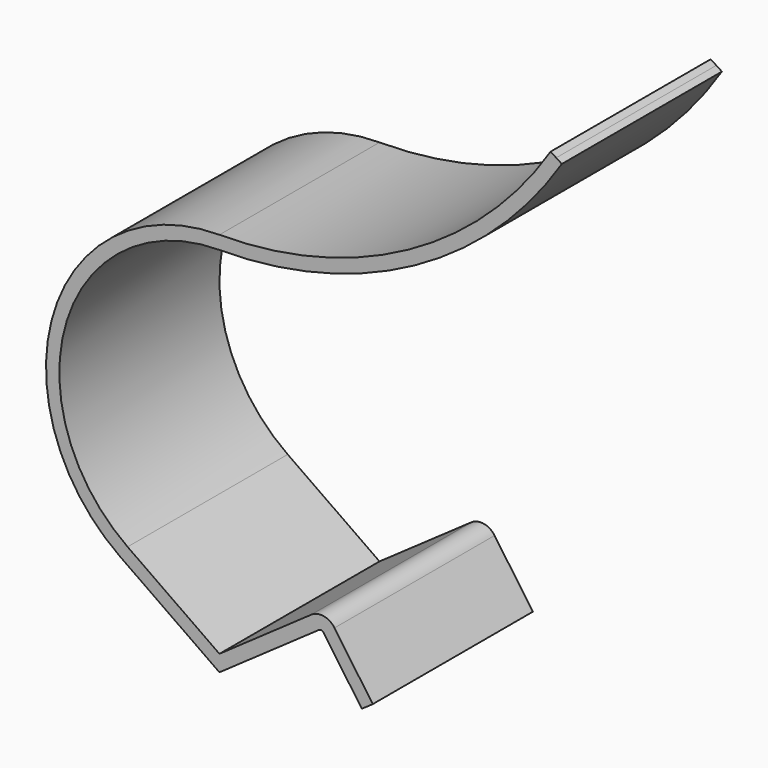
from build123d import *

# Parameters (mm, degrees)
F1_DEPTH = 15


with BuildPart() as f1:
    # F0 (on Front) → F1 (new body)
    with BuildSketch(Plane.XZ):
        with BuildLine():
            ThreePointArc((25.24413, 26.290931), (14.382766, 16.172523), (0, 12.5))
            ThreePointArc((0, 12.5), (-11.921462, 3.758822), (-7.169705, -10.239401))
            Line((-7.169705, -10.239401), (0, -15.259682))
            Line((0, -15.259682), (7.169705, -10.239401))
            ThreePointArc((7.169705, -10.239401), (7.730124, -10.115159), (8.214252, -10.423582))
            Line((8.214252, -10.423582), (11.082134, -14.519342))
            Line((11.082134, -14.519342), (11.49171, -14.232554))
            Line((11.49171, -14.232554), (8.623828, -10.136794))
            ThreePointArc((8.623828, -10.136794), (7.816948, -9.622755), (6.882917, -9.829825))
            Line((6.882917, -9.829825), (0, -14.649295))
            Line((0, -14.649295), (-6.882917, -9.829825))
            ThreePointArc((-6.882917, -9.829825), (-11.444604, 3.60847), (0, 12))
            ThreePointArc((0, 12), (14.622479, 15.733732), (25.664865, 26.02078))
            Line((25.664865, 26.02078), (25.24413, 26.290931))
        make_face()
        with BuildLine():
            ThreePointArc((-7.169705, -10.239401), (-11.921462, 3.758822), (0, 12.5))
            ThreePointArc((0, 12.5), (14.382766, 16.172523), (25.24413, 26.290931))
            Line((25.24413, 26.290931), (24.823395, 26.561081))
            ThreePointArc((24.823395, 26.561081), (14.143054, 16.611314), (0, 12.999999))
            ThreePointArc((0, 12.999999), (-12.39832, 3.909175), (-7.456493, -10.648976))
            Line((-7.456493, -10.648976), (0, -15.870069))
            Line((0, -15.870069), (7.456493, -10.648976))
            ThreePointArc((7.456493, -10.648976), (7.6433, -10.607562), (7.804677, -10.71037))
            Line((7.804677, -10.71037), (10.672559, -14.80613))
            Line((10.672559, -14.80613), (11.082134, -14.519342))
            Line((11.082134, -14.519342), (8.214252, -10.423582))
            ThreePointArc((8.214252, -10.423582), (7.730124, -10.115159), (7.169705, -10.239401))
            Line((7.169705, -10.239401), (0, -15.259682))
            Line((0, -15.259682), (-7.169705, -10.239401))
        make_face()
    extrude(amount=F1_DEPTH)


solid = f1.part
